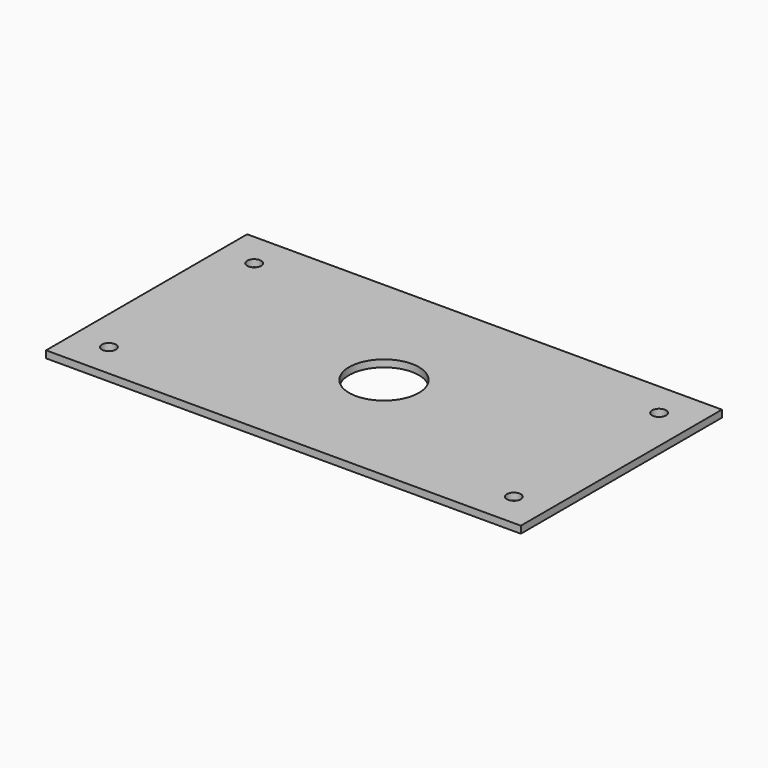
from build123d import *

# Parameters (mm, degrees)
F0_W     = 170
F0_H     = 90
F1_DEPTH = 2.54
F2_R     = 12.5
F3_DEPTH = 2.541
F4_R     = 2.5
F5_DEPTH = 2.541


with BuildPart() as f1:
    # F0 (on Top) → F1 (new body)
    with BuildSketch(Plane.XY):
        Rectangle(F0_W, F0_H)
    extrude(amount=F1_DEPTH)

    # F2 (on face) → F3 (cut, through all)
    with BuildSketch(Plane.XY.offset(2.54)):
        Circle(F2_R)
    extrude(amount=-F3_DEPTH, mode=Mode.SUBTRACT)

    # F4 (on face) → F5 (cut, through all)
    with BuildSketch(Plane.XY.offset(2.54)):
        with Locations((-72.5, 32.5)):
            Circle(F4_R)
        with Locations((72.5, 32.5)):
            Circle(F4_R)
        with Locations((72.5, -32.5)):
            Circle(F4_R)
        with Locations((-72.5, -32.5)):
            Circle(F4_R)
    extrude(amount=-F5_DEPTH, mode=Mode.SUBTRACT)


solid = f1.part
